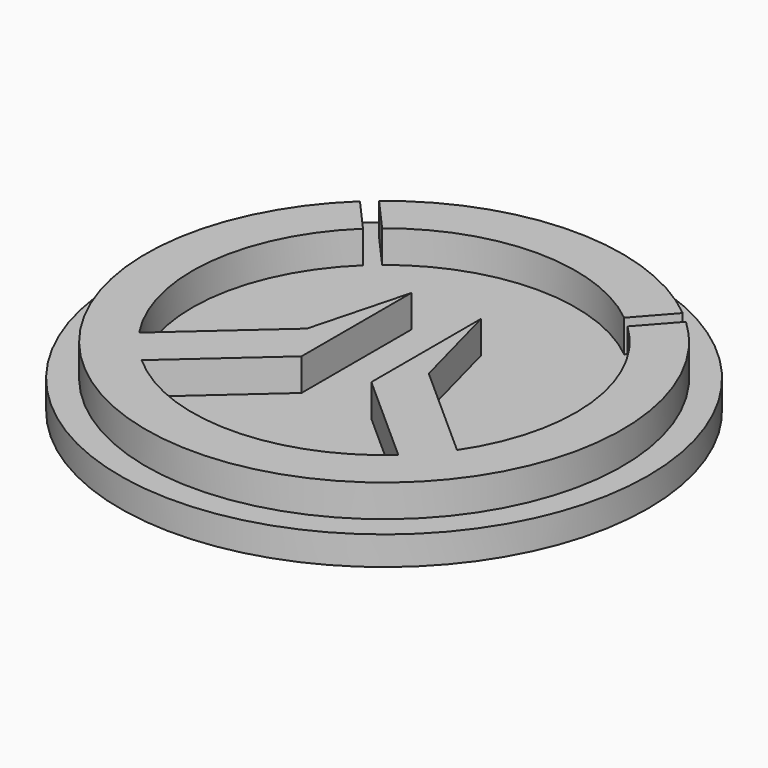
from build123d import *

# Parameters (mm, degrees)
F1_DEPTH = 17.78
F2_R     = 76.886719
F3_DEPTH = 8.382


with BuildPart() as f1:
    # F0 (on Top) → F1 (new body)
    with BuildSketch(Plane.XY):
        with BuildLine():
            Line((-44.224784, 53.456584), (-35.254574, 43.350696))
            ThreePointArc((-35.254574, 43.350696), (0, 55.876362), (35.254574, 43.350696))
            Line((35.254574, 43.350696), (44.224784, 53.456584))
            ThreePointArc((44.224784, 53.456584), (0, 69.378944), (-44.224784, 53.456584))
        make_face()
        with BuildLine():
            Line((-38.518488, 40.478314), (-47.495037, 50.573306))
            ThreePointArc((-47.495037, 50.573306), (0, -69.378944), (47.495037, 50.573306))
            Line((47.495037, 50.573306), (38.518488, 40.478314))
            ThreePointArc((38.518488, 40.478314), (55.551995, 6.011961), (46.286554, -31.300523))
            Line((46.286554, -31.300523), (17.743081, -5.91436))
            Line((17.743081, -5.91436), (10.167384, 22.634802))
            Line((10.167384, 22.634802), (10.167384, -17.344361))
            Line((10.167384, -17.344361), (37.374363, -41.537029))
            ThreePointArc((37.374363, -41.537029), (0, -55.876362), (-37.374363, -41.537029))
            Line((-37.374363, -41.537029), (-10.167384, -17.344361))
            Line((-10.167384, -17.344361), (-10.167384, 22.634802))
            Line((-10.167384, 22.634802), (-17.743081, -5.91436))
            Line((-17.743081, -5.91436), (-46.286554, -31.300523))
            ThreePointArc((-46.286554, -31.300523), (-55.551995, 6.011961), (-38.518488, 40.478314))
        make_face()
    extrude(amount=F1_DEPTH)


with BuildPart() as f3:
    # F2 (on Top) → F3 (new body)
    with BuildSketch(Plane.XY):
        Circle(F2_R)
    extrude(amount=F3_DEPTH)


solid = Compound([f1.part, f3.part])
